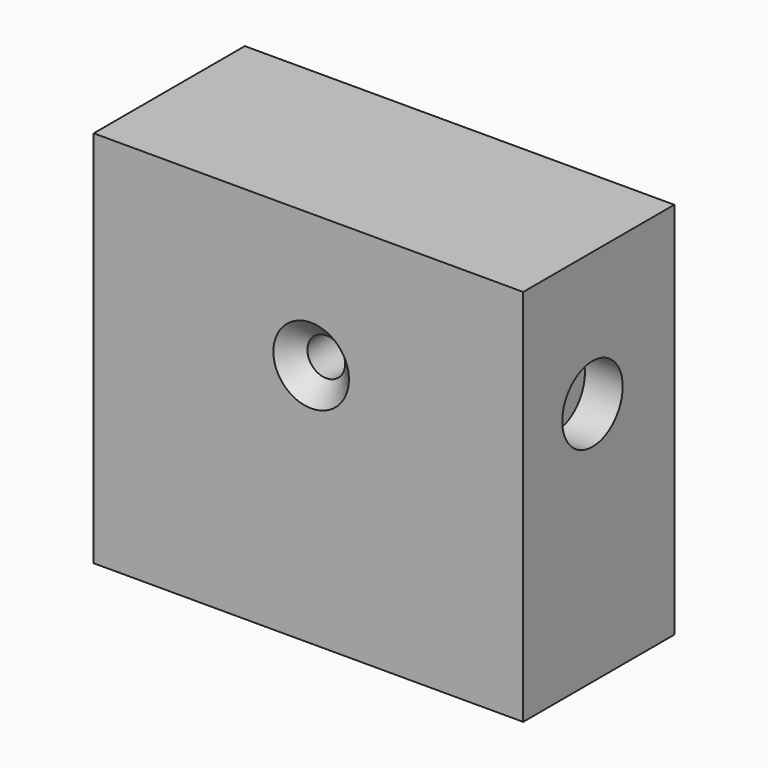
from build123d import *

# Parameters (mm, degrees)
F0_W           = 56.849372
F0_H           = 50.102681
F1_DEPTH       = 25
F3_D           = 5
F3_CSINK_D     = 10
F3_CSINK_ANGLE = 90
F5_D           = 5
F5_CSINK_D     = 10
F5_CSINK_ANGLE = 90
F6_D           = 5
F6_CBORE_D     = 10
F6_CBORE_DEPTH = 5


with BuildPart() as f1:
    # F0 (on Front) → F1 (new body)
    with BuildSketch(Plane.XZ):
        with Locations((72.599741, -7.349261)):
            Rectangle(F0_W, F0_H)
    extrude(amount=F1_DEPTH)

    # F3 (through all)
    with Locations(Plane.XZ.offset(25)):
        with Locations((72.959617, 0)):
            CounterSinkHole(F3_D / 2, F3_CSINK_D / 2, counter_sink_angle=F3_CSINK_ANGLE)

    # F5 (through all)
    with Locations(Plane.YZ.offset(101.024427)):
        with Locations((-13.537139, 0)):
            CounterSinkHole(F5_D / 2, F5_CSINK_D / 2, counter_sink_angle=F5_CSINK_ANGLE)

    # F6 (through all)
    with Locations(Plane.YZ.offset(101.024427)):
        with Locations((-13.537139, 0)):
            CounterBoreHole(F6_D / 2, F6_CBORE_D / 2, F6_CBORE_DEPTH)


solid = f1.part
